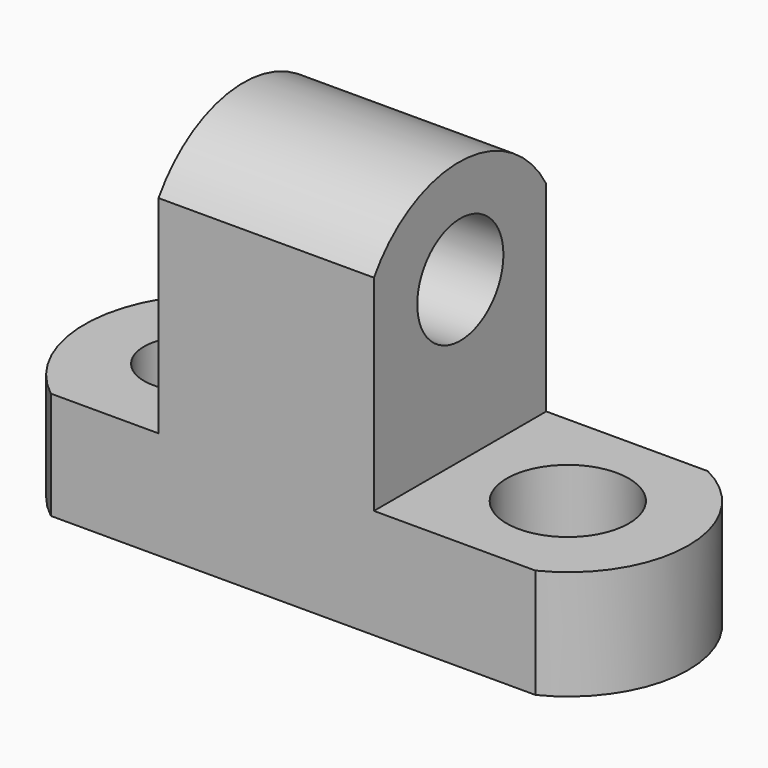
from build123d import *

# Parameters (mm, degrees)
F1_DEPTH = 25.4
F2_R     = 6.350053
F3_DEPTH = 25.4
F4_R     = 7.19822
F5_DEPTH = 25.4
F6_R     = 5.510191
F7_DEPTH = 25.4


with BuildPart() as f1:
    # F0 (on Front) → F1 (new body)
    with BuildSketch(Plane.XZ):
        Polygon((0, 12.7), (0, 0), (76.2, 0), (76.2, 12.911667), (44.45, 12.911667), (44.45, 44.45), (19.05, 44.45), (19.05, 12.7), align=None)
    extrude(amount=F1_DEPTH)

    # F2 (on face) → F3 (cut)
    with BuildSketch(Plane.YZ.offset(44.45)):
        with BuildLine():
            ThreePointArc((-25.4, 37.126943), (-12.537074, 44.028554), (0, 36.55133))
            Line((0, 36.55133), (0, 44.45))
            Line((0, 44.45), (-25.4, 44.45))
            Line((-25.4, 44.45), (-25.4, 37.126943))
        make_face()
        with Locations((-12.663453, 31.75)):
            Circle(F2_R)
    extrude(amount=-F3_DEPTH, mode=Mode.SUBTRACT)

    # F4 (on face) → F5 (cut)
    with BuildSketch(Plane.XY.offset(12.911667)):
        with Locations((57.15, -12.7)):
            Circle(F4_R)
        with BuildLine():
            ThreePointArc((63.5, 0), (71.379619, -12.7), (63.5, -25.4))
            Line((63.5, -25.4), (76.2, -25.4))
            Line((76.2, -25.4), (76.2, 0))
            Line((76.2, 0), (63.5, 0))
        make_face()
    extrude(amount=-F5_DEPTH, mode=Mode.SUBTRACT)

    # F6 (on face) → F7 (cut)
    with BuildSketch(Plane.XY.offset(12.7)):
        with BuildLine():
            ThreePointArc((6.35, -25.4), (0.149355, -12.7), (6.35, 0))
            Line((6.35, 0), (0, 0))
            Line((0, 0), (0, -25.4))
            Line((0, -25.4), (6.35, -25.4))
        make_face()
        with Locations((12.7, -12.7)):
            Circle(F6_R)
    extrude(amount=-F7_DEPTH, mode=Mode.SUBTRACT)


solid = f1.part
